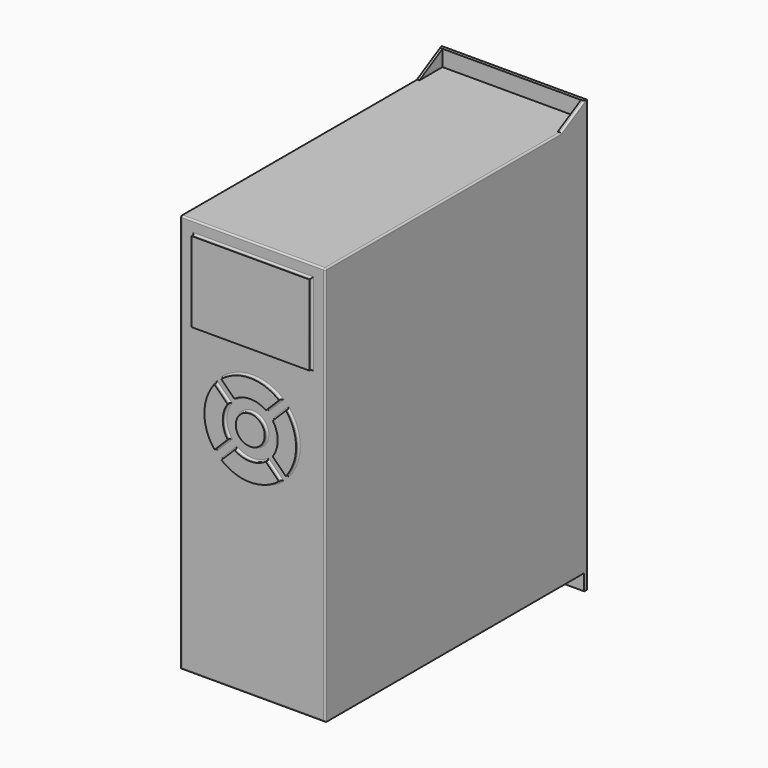
from build123d import *

# Parameters (mm, degrees)
F0_W      = 90
F0_H      = 248
F1_DEPTH  = 205
F2_W      = 90
F2_H      = 248
F2_R      = 9
F2_W_2    = 73.0899348855
F2_H_2    = 49.802608788
F3_DEPTH  = 2
F4_W      = 90
F4_H      = 10
F5_DEPTH  = 20
F7_DEPTH  = 10
F9_DEPTH  = 90.001
F10_R     = 1
F11_DEPTH = 18


with BuildPart() as f1:
    # F0 (on Front) → F1 (new body)
    with BuildSketch(Plane.XZ):
        Rectangle(F0_W, F0_H)
    extrude(amount=F1_DEPTH)

    # F2 (on face) → F3 (cut)
    with BuildSketch(Plane.XZ.offset(205)):
        Rectangle(F2_W, F2_H)
        with BuildLine():
            ThreePointArc((-22.1542112523, 4.0888261413), (-28.4888623982, 21.9367015102), (-22.2335868368, 39.8125508039))
            Line((-22.2335868368, 39.8125508039), (-14.0800879143, 31.6590518814))
            ThreePointArc((-14.0800879143, 31.6590518814), (-17.0746019847, 21.9360306146), (-14.0073171141, 12.2357202795))
            Line((-14.0073171141, 12.2357202795), (-22.1542112523, 4.0888261413))
        make_face(mode=Mode.SUBTRACT)
        with BuildLine():
            Line((9.659050138, 7.9199138292), (17.8125490605, -0.2335850934))
            ThreePointArc((17.8125490605, -0.2335850934), (-0.0635810751, -6.4888600293), (-17.9116123889, -0.1538563696))
            Line((-17.9116123889, -0.1538563696), (-9.7647469179, 7.9930091015))
            ThreePointArc((-9.7647469179, 7.9930091015), (-0.0642548211, 4.9254008239), (9.659050138, 7.9199138292))
        make_face(mode=Mode.SUBTRACT)
        with BuildLine():
            ThreePointArc((-18.0098373075, 44.0740826489), (-0.0635511695, 50.4888635829), (17.9111756021, 44.1542129957))
            Line((17.9111756021, 44.1542129957), (9.7642814639, 36.0073188576))
            ThreePointArc((9.7642814639, 36.0073188576), (-0.0641690046, 39.0746029857), (-9.8692875132, 35.9335328546))
            Line((-9.8692875132, 35.9335328546), (-18.0098373075, 44.0740826489))
        make_face(mode=Mode.SUBTRACT)
        with Locations((0, 22.0000017434)):
            Circle(F2_R, mode=Mode.SUBTRACT)
        with BuildLine():
            ThreePointArc((22.153858113, 39.9116141324), (28.4888624646, 21.9367314157), (22.0740809054, 3.990164436))
            Line((22.0740809054, 3.990164436), (13.9335311111, 12.1307142303))
            ThreePointArc((13.9335311111, 12.1307142303), (17.074602306, 21.936116431), (14.006992642, 31.7647486613))
            Line((14.006992642, 31.7647486613), (22.153858113, 39.9116141324))
        make_face(mode=Mode.SUBTRACT)
        with Locations((0.1340024173, 91.3970731199)):
            Rectangle(F2_W_2, F2_H_2, mode=Mode.SUBTRACT)
    extrude(amount=-F3_DEPTH, mode=Mode.SUBTRACT)

    # F4 (on face) → F5 (join)
    with BuildSketch(Plane(origin=(0, 0, 0), x_dir=(-1, 0, 0), z_dir=(0, 1, 0))):
        with Locations((0, 129)):
            Rectangle(F4_W, F4_H)
        with Locations((0, -129)):
            Rectangle(F4_W, F4_H)
    extrude(amount=-F5_DEPTH)

    # F6 (on face) → F7 (cut, through all)
    with BuildSketch(Plane.XY.offset(134)):
        Polygon((43, -2), (-43, -2), (-43, -20), (43, -20), (43, -18), align=None)
    extrude(amount=-F7_DEPTH, mode=Mode.SUBTRACT)

    # F8 (on face) → F9 (cut, through all)
    with BuildSketch(Plane.YZ.offset(45)):
        Polygon((-20, 134), (-20, 124), (-2, 134), align=None)
    extrude(amount=-F9_DEPTH, mode=Mode.SUBTRACT)

    # F10
    f10_edges = [f1.edges().sort_by_distance(p)[0] for p in [
        (-45, -111.5, 124),
        (-45, -11, 129),
        (45, -11, 129),
        (45, -111.5, 124),
        (0, -203, -124),
        (45, -203, 0),
        (0, -203, 124),
        (-45, -203, 0),
        (-18.156837, -203, 35.735801),
        (-17.074602, -203, 21.936031),
        (-18.080764, -203, 8.162273),
        (-28.488862, -203, 21.936702),
        (-0.064255, -203, 4.925401),
        (13.7358, -203, 3.843164),
        (-0.063581, -203, -6.48886),
        (-13.83818, -203, 3.919576),
        (-0.064169, -203, 39.074603),
        (-13.939562, -203, 40.003808),
        (-0.063551, -203, 50.488864),
        (13.837729, -203, 40.080766),
        (-9, -203, 22.000002),
        (28.488862, -203, 21.936731),
        (18.003806, -203, 8.060439),
        (17.074602, -203, 21.936116),
        (18.080425, -203, 35.838181),
        (-36.410965, -203, 91.397073),
        (0.134002, -203, 116.298378),
        (36.67897, -203, 91.397073),
        (0.134002, -203, 66.495769),
    ]]
    fillet(f10_edges, radius=F10_R)

    # F11 (cut): a face of the model
    f11_faces = [f1.faces().sort_by_distance(p)[0] for p in [
        (0, -20, -129),
    ]]
    extrude(f11_faces, amount=-F11_DEPTH, mode=Mode.SUBTRACT)


solid = f1.part
